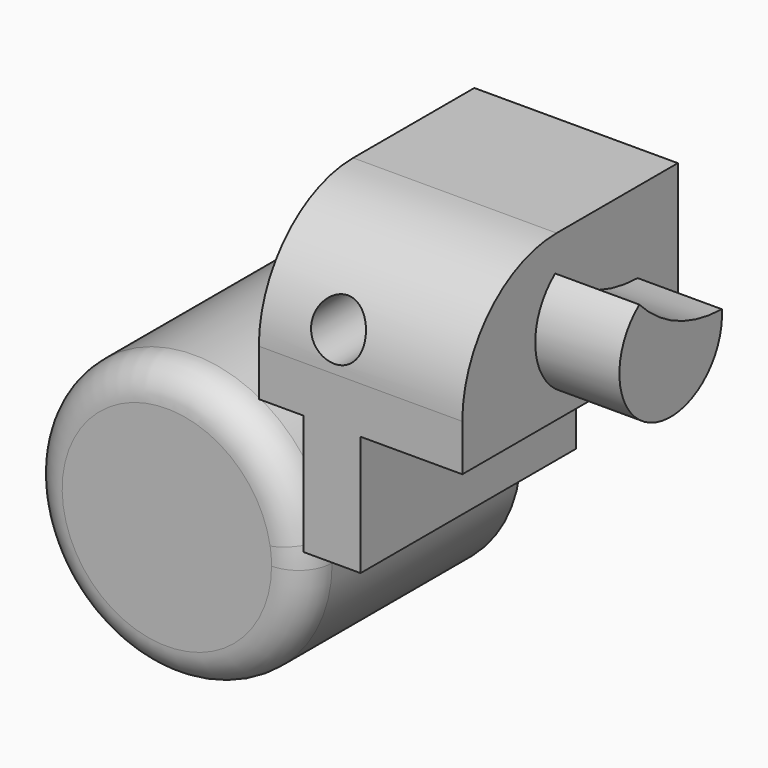
from build123d import *

# Parameters (mm, degrees)
F1_DEPTH  = 40.64
F0_W      = 8.6371588569
F0_H      = 18.1170738973
F2_R      = 5.08
F3_R      = 12.2849564613
F4_DEPTH  = 6.35
F5_R      = 5.08
F6_R      = 17.78
F8_DEPTH  = 12.7
F9_R      = 4.014567472
F10_DEPTH = 46.991


with BuildPart() as f1:
    # F0 (on Front) → F1 (new body)
    with BuildSketch(Plane.XZ):
        with BuildLine():
            ThreePointArc((20.59119781, 3.4362115226), (-20.8046345697, -1.7239945757), (20.8759425387, 0))
            ThreePointArc((20.8759425387, 0), (20.8046345697, 1.7239945757), (20.59119781, 3.4362115226))
        make_face()
    extrude(amount=F1_DEPTH)

    # F2
    f2_edges = [f1.edges().sort_by_distance(p)[0] for p in [
        (-20.875943, -40.64, 0),
    ]]
    fillet(f2_edges, radius=F2_R)

    # F3 (on face) → F4 (join, symmetric)
    with BuildSketch(Plane(origin=(0, 0, 0), x_dir=(-1, 0, 0), z_dir=(0, 1, 0))):
        Circle(F3_R)
    extrude(amount=F4_DEPTH, both=True)

    # F5
    f5_edges = [f1.edges().sort_by_distance(p)[0] for p in [
        (12.284956, 6.35, 0),
    ]]
    fillet(f5_edges, radius=F5_R)


with BuildPart() as f1b:
    # F0 (on Front) → F1, piece 2 (new body)
    with BuildSketch(Plane.XZ):
        with Locations((24.9097772384, 12.4947484713)):
            Rectangle(F0_W, F0_H)
        Polygon((13.8782132417, 21.5532854199), (20.59119781, 21.5532854199), (29.2283566669, 21.5532854199), (44.578500092, 21.5532854199), (44.578500092, 46.3658496737), (13.8782132417, 46.3658496737), align=None)
    extrude(amount=F1_DEPTH)

    # F6
    f6_edges = [f1b.edges().sort_by_distance(p)[0] for p in [
        (29.228357, -40.64, 46.36585),
    ]]
    fillet(f6_edges, radius=F6_R)

    # F7 (on face) → F8 (join)
    with BuildSketch(Plane.YZ.offset(44.578500092)):
        with BuildLine():
            ThreePointArc((-7.5699351728, 34.1698415577), (-16.0560709471, 36.0564102607), (-23.1303535402, 41.1089509726))
            ThreePointArc((-23.1303535402, 41.1089509726), (-21.1565768964, 24.6189185437), (-7.5699351728, 34.1698415577))
        make_face()
    extrude(amount=F8_DEPTH)

    # F9 (on face) → F10 (cut, through all)
    with BuildSketch(Plane.XZ.offset(40.64)):
        with Locations((25.2137891948, 33.9278802276)):
            Circle(F9_R)
    extrude(amount=-F10_DEPTH, mode=Mode.SUBTRACT)


solid = Compound([f1.part, f1b.part])
